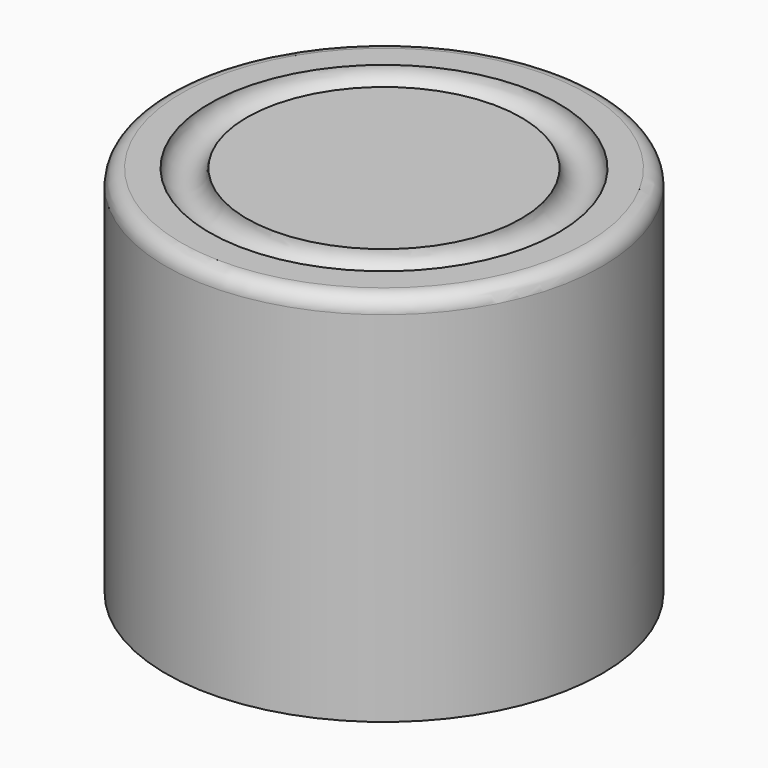
from build123d import *

# Parameters (mm, degrees)
TORUS_R        = 0.6
CYLINDER_R     = 7
CYLINDER_DEPTH = 12
FILLET001_R    = 0.5


with BuildPart() as torus:
    # Torus → Torus (revolve)
    with BuildSketch(Plane(origin=(10, 10, 12), x_dir=(1, 0, 0), z_dir=(0, -1, 0))):
        with Locations((5, 0)):
            Circle(TORUS_R)
    revolve(axis=Axis((10, 10, 12), (0, 0, 1)))


with BuildPart() as cut001:
    # Cylinder → Cylinder (new body)
    with BuildSketch(Plane(origin=(10, 10, 0), x_dir=(1, 0, 0), z_dir=(0, 0, 1))):
        Circle(CYLINDER_R)
    extrude(amount=CYLINDER_DEPTH)

    # Fillet001
    fillet001_edges = [cut001.edges().sort_by_distance(p)[0] for p in [
        (3, 10, 12),
    ]]
    fillet(fillet001_edges, radius=FILLET001_R)

    # Cut001: cut Torus
    add(torus.part, mode=Mode.SUBTRACT)


solid = cut001.part
